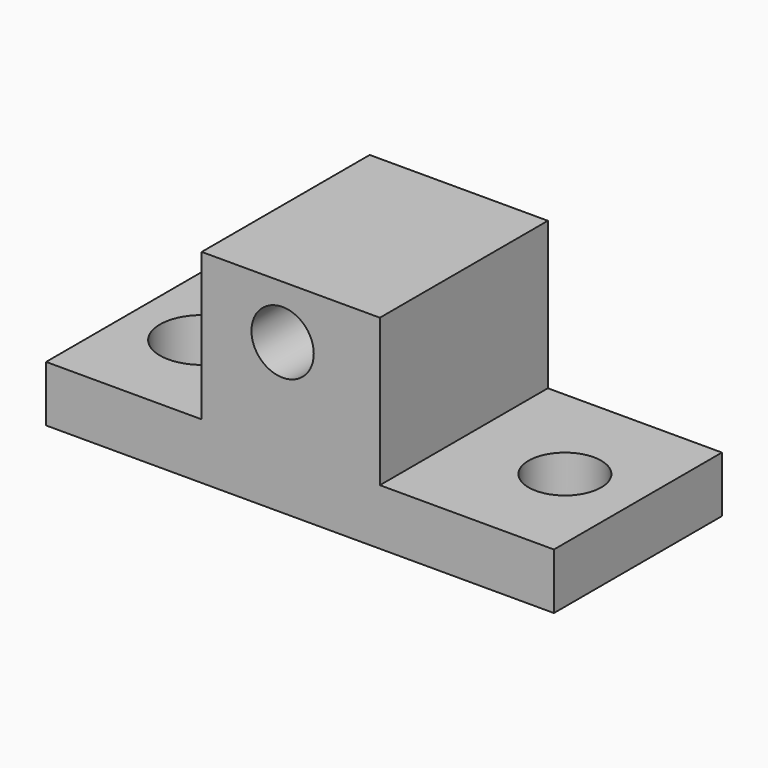
from build123d import *

# Parameters (mm, degrees)
F0_R     = 10.025371
F1_DEPTH = 33.782
F2_DEPTH = 25.4
F3_R     = 13.556972
F3_R_2   = 11.687206
F4_DEPTH = 25.4
F5_DEPTH = 25.4


with BuildPart() as f1:
    # F0 (on Front) → F1 (new body, symmetric)
    with BuildSketch(Plane.XZ):
        Polygon((-76.107018, 18.011289), (-76.107018, 0), (87.307796, 0), (87.307796, 18.011289), (31.29869, 18.011289), (31.29869, 65.454304), (-26.03207, 65.454304), (-26.03207, 18.011289), align=None)
        with Locations((0, 48.306234)):
            Circle(F0_R, mode=Mode.SUBTRACT)
    extrude(amount=F1_DEPTH, both=True)

    # F0 (on Front) → F2 (join)
    with BuildSketch(Plane.XZ):
        Polygon((-76.107018, 18.011289), (-76.107018, 0), (87.307796, 0), (87.307796, 18.011289), (31.29869, 18.011289), (31.29869, 65.454304), (-26.03207, 65.454304), (-26.03207, 18.011289), align=None)
        with Locations((0, 48.306234)):
            Circle(F0_R, mode=Mode.SUBTRACT)
    extrude(amount=F2_DEPTH)

    # F3 (on face) → F4 (cut)
    with BuildSketch(Plane.XY.offset(18.011289)):
        with Locations((-52.955225, 0)):
            Circle(F3_R)
        with Locations((63.819543, 0)):
            Circle(F3_R_2)
    extrude(amount=-F4_DEPTH, mode=Mode.SUBTRACT)

    # F3 (on face) → F5 (cut)
    with BuildSketch(Plane.XY.offset(18.011289)):
        with Locations((-52.955225, 0)):
            Circle(F3_R)
        with Locations((63.819543, 0)):
            Circle(F3_R_2)
    extrude(amount=-F5_DEPTH, mode=Mode.SUBTRACT)


solid = f1.part
